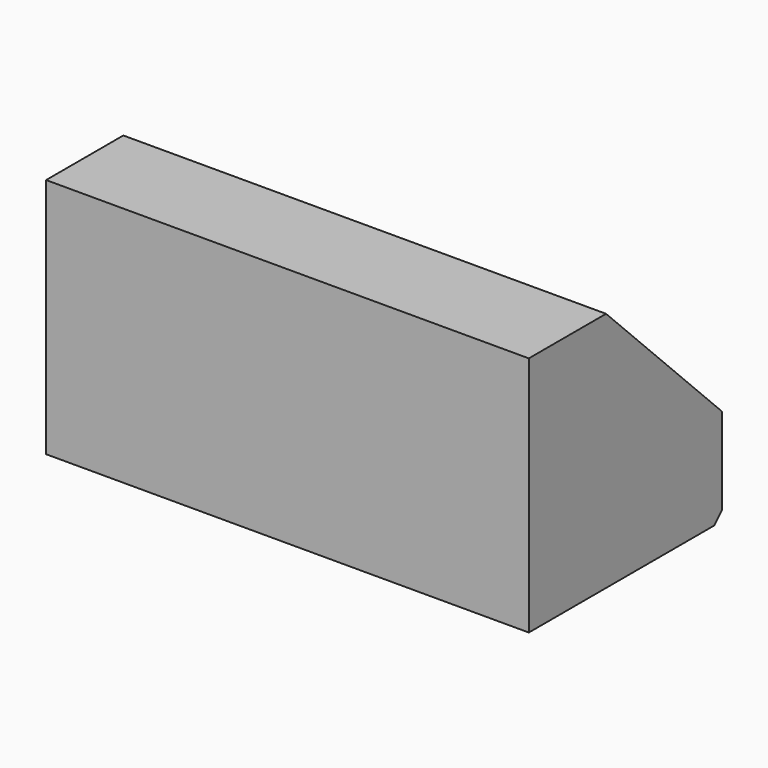
from build123d import *

# Parameters (mm, degrees)
F0_W     = 50
F0_H     = 25
F1_DEPTH = 25
F2_SIZE  = 15
F4_D     = 4.2
F5_SIZE  = 1


with BuildPart() as f1:
    # F0 (on Top) → F1 (new body)
    with BuildSketch(Plane.XY):
        with Locations((25, 12.5)):
            Rectangle(F0_W, F0_H)
    extrude(amount=F1_DEPTH)

    # F2
    f2_edges = [f1.edges().sort_by_distance(p)[0] for p in [
        (25, 25, 25),
    ]]
    chamfer(f2_edges, length=F2_SIZE)

    # F4 (through all)
    with Locations(Plane(origin=(0, 17.5, 17.5), x_dir=(-1, 0, 0), z_dir=(0, 0.7071067812, 0.7071067812))):
        with Locations((-10, -4.3933982822), (-35, -4.3933982822)):
            Hole(F4_D / 2)

    # F5
    f5_edges = [f1.edges().sort_by_distance(p)[0] for p in [
        (25, 25, 0),
    ]]
    chamfer(f5_edges, length=F5_SIZE)


solid = f1.part
